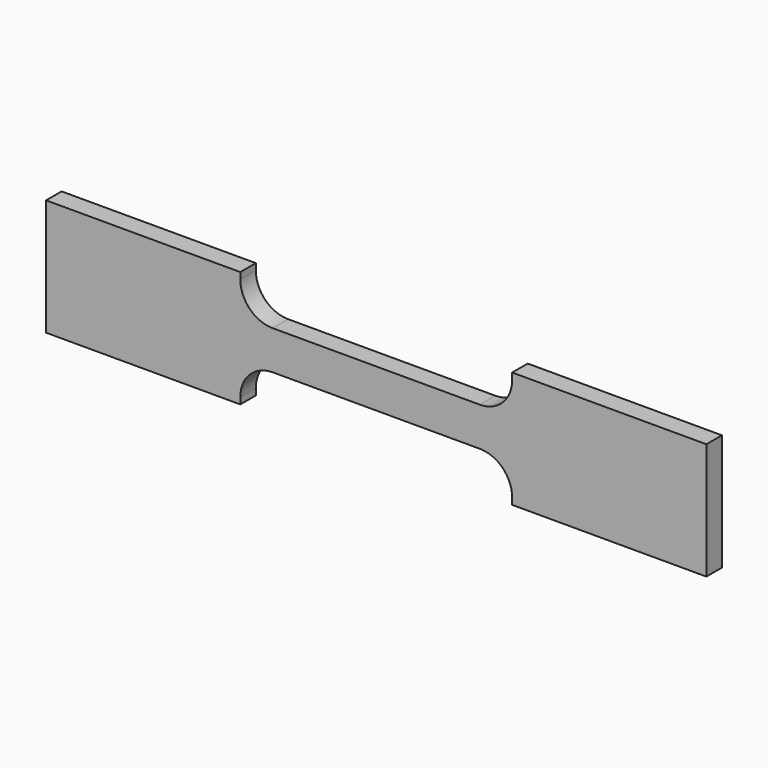
from build123d import *

# Parameters (mm, degrees)
F1_DEPTH = 3


with BuildPart() as f1:
    # F0 (on Front) → F1 (new body)
    with BuildSketch(Plane.XZ):
        with BuildLine():
            Line((-49.155377, 19.931565), (-49.155377, 10.931565))
            Line((-49.155377, 10.931565), (-49.155377, 1.931565))
            Line((-49.155377, 1.931565), (-19.155377, 1.931565))
            Line((-19.155377, 1.931565), (-19.155377, 2.931565))
            ThreePointArc((-19.155377, 2.931565), (-17.690911, 6.467099), (-14.155377, 7.931565))
            Line((-14.155377, 7.931565), (17.844623, 7.931565))
            ThreePointArc((17.844623, 7.931565), (21.380157, 6.467099), (22.844623, 2.931565))
            Line((22.844623, 2.931565), (22.844623, 1.931565))
            Line((22.844623, 1.931565), (52.844623, 1.931565))
            Line((52.844623, 1.931565), (52.844623, 10.931565))
            Line((52.844623, 10.931565), (52.844623, 19.931565))
            Line((52.844623, 19.931565), (22.844623, 19.931565))
            Line((22.844623, 19.931565), (22.844623, 18.931565))
            ThreePointArc((22.844623, 18.931565), (21.380157, 15.396031), (17.844623, 13.931565))
            Line((17.844623, 13.931565), (-14.155377, 13.931565))
            ThreePointArc((-14.155377, 13.931565), (-17.690911, 15.396031), (-19.155377, 18.931565))
            Line((-19.155377, 18.931565), (-19.155377, 19.931565))
            Line((-19.155377, 19.931565), (-49.155377, 19.931565))
        make_face()
    extrude(amount=F1_DEPTH)


solid = f1.part
